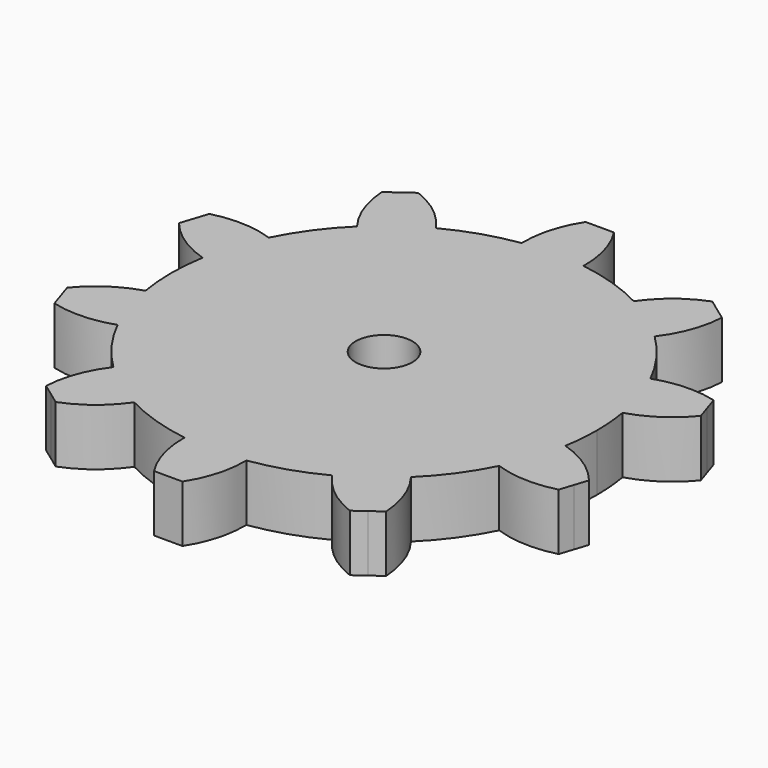
from build123d import *

# Parameters (mm, degrees)
F1_DEPTH = 2
F2_R     = 1
F3_DEPTH = 2.001


with BuildPart() as f1:
    # F0 (on Top) → F1 (new body)
    with BuildSketch(Plane.XY):
        with BuildLine():
            ThreePointArc((7.393736, -1.258044), (7.473387, -0.631262), (7.5, 0))
            ThreePointArc((7.5, 0), (7.473387, 0.631262), (7.393736, 1.258044))
            ThreePointArc((7.393736, 1.258044), (7.132924, 2.317627), (6.721117, 3.32815))
            ThreePointArc((6.721117, 3.32815), (6.067627, 4.408389), (5.242198, 5.363708))
            ThreePointArc((5.242198, 5.363708), (4.408389, 6.067627), (3.481261, 6.643103))
            ThreePointArc((3.481261, 6.643103), (2.317627, 7.132924), (1.088319, 7.420617))
            ThreePointArc((1.088319, 7.420617), (0, 7.5), (-1.088319, 7.420617))
            ThreePointArc((-1.088319, 7.420617), (-2.317627, 7.132924), (-3.481261, 6.643103))
            ThreePointArc((-3.481261, 6.643103), (-4.408389, 6.067627), (-5.242198, 5.363708))
            ThreePointArc((-5.242198, 5.363708), (-6.067627, 4.408389), (-6.721117, 3.32815))
            ThreePointArc((-6.721117, 3.32815), (-7.132924, 2.317627), (-7.393736, 1.258044))
            ThreePointArc((-7.393736, 1.258044), (-7.5, 0), (-7.393736, -1.258044))
            ThreePointArc((-7.393736, -1.258044), (-7.132924, -2.317627), (-6.721117, -3.32815))
            ThreePointArc((-6.721117, -3.32815), (-6.067627, -4.408389), (-5.242198, -5.363708))
            ThreePointArc((-5.242198, -5.363708), (-4.408389, -6.067627), (-3.481261, -6.643103))
            ThreePointArc((-3.481261, -6.643103), (-2.317627, -7.132924), (-1.088319, -7.420617))
            ThreePointArc((-1.088319, -7.420617), (0, -7.5), (1.088319, -7.420617))
            ThreePointArc((1.088319, -7.420617), (2.317627, -7.132924), (3.481261, -6.643103))
            ThreePointArc((3.481261, -6.643103), (4.408389, -6.067627), (5.242198, -5.363708))
            ThreePointArc((5.242198, -5.363708), (6.067627, -4.408389), (6.721117, -3.32815))
            ThreePointArc((6.721117, -3.32815), (7.132924, -2.317627), (7.393736, -1.258044))
        make_face()
        with BuildLine():
            ThreePointArc((6.721117, 3.32815), (7.132924, 2.317627), (7.393736, 1.258044))
            ThreePointArc((7.393736, 1.258044), (8.381632, 1.724649), (9.189545, 2.460133))
            Line((9.189545, 2.460133), (9.035037, 2.935661))
            Line((9.035037, 2.935661), (8.880528, 3.41119))
            ThreePointArc((8.880528, 3.41119), (7.794606, 3.531329), (6.721117, 3.32815))
        make_face()
        with BuildLine():
            ThreePointArc((9.189545, -2.460133), (8.381632, -1.724649), (7.393736, -1.258044))
            ThreePointArc((7.393736, -1.258044), (7.132924, -2.317627), (6.721117, -3.32815))
            ThreePointArc((6.721117, -3.32815), (7.794606, -3.531329), (8.880528, -3.41119))
            Line((8.880528, -3.41119), (9.035037, -2.935661))
            Line((9.035037, -2.935661), (9.189545, -2.460133))
        make_face()
        with BuildLine():
            ThreePointArc((3.481261, 6.643103), (4.408389, 6.067627), (5.242198, 5.363708))
            ThreePointArc((5.242198, 5.363708), (5.767159, 6.32187), (5.988468, 7.391769))
            Line((5.988468, 7.391769), (5.58396, 7.685661))
            Line((5.58396, 7.685661), (5.179451, 7.979554))
            ThreePointArc((5.179451, 7.979554), (4.230306, 7.43846), (3.481261, 6.643103))
        make_face()
        with BuildLine():
            ThreePointArc((5.988468, -7.391769), (5.767159, -6.32187), (5.242198, -5.363708))
            ThreePointArc((5.242198, -5.363708), (4.408389, -6.067627), (3.481261, -6.643103))
            ThreePointArc((3.481261, -6.643103), (4.230306, -7.43846), (5.179451, -7.979554))
            Line((5.179451, -7.979554), (5.58396, -7.685661))
            Line((5.58396, -7.685661), (5.988468, -7.391769))
        make_face()
        with BuildLine():
            ThreePointArc((-1.088319, 7.420617), (0, 7.5), (1.088319, 7.420617))
            ThreePointArc((1.088319, 7.420617), (0.949828, 8.504352), (0.5, 9.5))
            Line((0.5, 9.5), (0, 9.5))
            Line((0, 9.5), (-0.5, 9.5))
            ThreePointArc((-0.5, 9.5), (-0.949828, 8.504352), (-1.088319, 7.420617))
        make_face()
        with BuildLine():
            ThreePointArc((0.5, -9.5), (0.949828, -8.504352), (1.088319, -7.420617))
            ThreePointArc((1.088319, -7.420617), (0, -7.5), (-1.088319, -7.420617))
            ThreePointArc((-1.088319, -7.420617), (-0.949828, -8.504352), (-0.5, -9.5))
            Line((-0.5, -9.5), (0, -9.5))
            Line((0, -9.5), (0.5, -9.5))
        make_face()
        with BuildLine():
            ThreePointArc((-5.242198, 5.363708), (-4.408389, 6.067627), (-3.481261, 6.643103))
            ThreePointArc((-3.481261, 6.643103), (-4.230306, 7.43846), (-5.179451, 7.979554))
            Line((-5.179451, 7.979554), (-5.58396, 7.685661))
            Line((-5.58396, 7.685661), (-5.988468, 7.391769))
            ThreePointArc((-5.988468, 7.391769), (-5.767159, 6.32187), (-5.242198, 5.363708))
        make_face()
        with BuildLine():
            ThreePointArc((-5.179451, -7.979554), (-4.230306, -7.43846), (-3.481261, -6.643103))
            ThreePointArc((-3.481261, -6.643103), (-4.408389, -6.067627), (-5.242198, -5.363708))
            ThreePointArc((-5.242198, -5.363708), (-5.767159, -6.32187), (-5.988468, -7.391769))
            Line((-5.988468, -7.391769), (-5.58396, -7.685661))
            Line((-5.58396, -7.685661), (-5.179451, -7.979554))
        make_face()
        with BuildLine():
            ThreePointArc((-7.393736, 1.258044), (-7.132924, 2.317627), (-6.721117, 3.32815))
            ThreePointArc((-6.721117, 3.32815), (-7.794606, 3.531329), (-8.880528, 3.41119))
            Line((-8.880528, 3.41119), (-9.035037, 2.935661))
            Line((-9.035037, 2.935661), (-9.189545, 2.460133))
            ThreePointArc((-9.189545, 2.460133), (-8.381632, 1.724649), (-7.393736, 1.258044))
        make_face()
        with BuildLine():
            ThreePointArc((-8.880528, -3.41119), (-7.794606, -3.531329), (-6.721117, -3.32815))
            ThreePointArc((-6.721117, -3.32815), (-7.132924, -2.317627), (-7.393736, -1.258044))
            ThreePointArc((-7.393736, -1.258044), (-8.381632, -1.724649), (-9.189545, -2.460133))
            Line((-9.189545, -2.460133), (-9.035037, -2.935661))
            Line((-9.035037, -2.935661), (-8.880528, -3.41119))
        make_face()
    extrude(amount=F1_DEPTH)

    # F2 (on face) → F3 (cut, through all)
    with BuildSketch(Plane.XY.offset(2)):
        Circle(F2_R)
    extrude(amount=-F3_DEPTH, mode=Mode.SUBTRACT)


solid = f1.part
